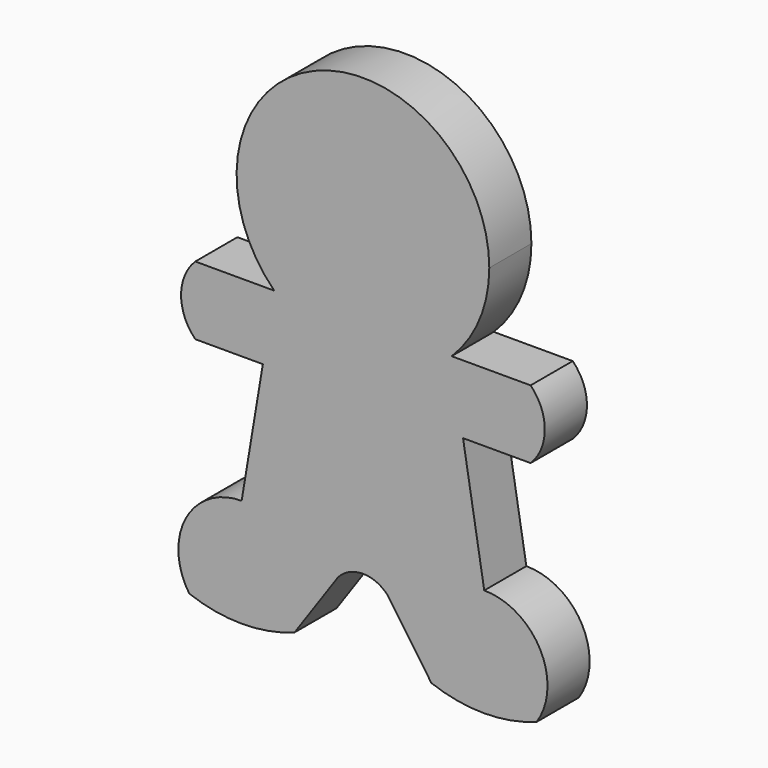
from build123d import *

# Parameters (mm, degrees)
F1_DEPTH = 2.54


with BuildPart() as f1:
    # F0 (on Front) → F1 (new body)
    with BuildSketch(Plane.XZ):
        with BuildLine():
            ThreePointArc((4.2795464076, -4.3412784459), (5.6235811944, -2.3529875795), (6.096, 0))
            ThreePointArc((6.096, 0), (-2.3529875795, 5.6235811944), (-4.2795464076, -4.3412784459))
            Line((-4.2795464076, -4.3412784459), (-3.556, 0))
            Line((-3.556, 0), (0, 0))
            Line((0, 0), (3.556, 0))
            Line((3.556, 0), (4.2795464076, -4.3412784459))
        make_face()
        with BuildLine():
            Line((-3.556, 0), (-4.2795464076, -4.3412784459))
            ThreePointArc((-4.2795464076, -4.3412784459), (0, -6.096), (4.2795464076, -4.3412784459))
            Line((4.2795464076, -4.3412784459), (3.556, 0))
            Line((3.556, 0), (0, 0))
            Line((0, 0), (-3.556, 0))
        make_face()
        with BuildLine():
            ThreePointArc((4.2795464076, -4.3412784459), (0, -6.096), (-4.2795464076, -4.3412784459))
            Line((-4.2795464076, -4.3412784459), (-4.572, -6.096))
            Line((-4.572, -6.096), (-4.829879741, -7.6432784459))
            Line((-4.829879741, -7.6432784459), (-5.8526538527, -13.7799231159))
            Line((-5.8526538527, -13.7799231159), (0, -13.7799231159))
            Line((0, -13.7799231159), (5.8526538527, -13.7799231159))
            Line((5.8526538527, -13.7799231159), (4.829879741, -7.6432784459))
            Line((4.829879741, -7.6432784459), (4.572, -6.096))
            Line((4.572, -6.096), (4.2795464076, -4.3412784459))
        make_face()
        with BuildLine():
            Line((-4.572, -6.096), (-4.2795464076, -4.3412784459))
            Line((-4.2795464076, -4.3412784459), (-8.0895464076, -4.3412784459))
            ThreePointArc((-8.0895464076, -4.3412784459), (-8.7753464076, -5.9922784459), (-8.0895464076, -7.6432784459))
            Line((-8.0895464076, -7.6432784459), (-4.829879741, -7.6432784459))
            Line((-4.829879741, -7.6432784459), (-4.572, -6.096))
        make_face()
        with BuildLine():
            Line((8.0895464076, -4.3412784459), (4.2795464076, -4.3412784459))
            Line((4.2795464076, -4.3412784459), (4.572, -6.096))
            Line((4.572, -6.096), (4.829879741, -7.6432784459))
            Line((4.829879741, -7.6432784459), (8.0895464076, -7.6432784459))
            ThreePointArc((8.0895464076, -7.6432784459), (8.7753464076, -5.9922784459), (8.0895464076, -4.3412784459))
        make_face()
        with BuildLine():
            Line((0, -13.7799231159), (-5.8526538527, -13.7799231159))
            ThreePointArc((-5.8526538527, -13.7799231159), (-8.5487143204, -15.4006894585), (-8.382, -18.542))
            Line((-8.382, -18.542), (-5.842, -18.542))
            Line((-5.842, -18.542), (-3.302, -18.542))
            Line((-3.302, -18.542), (-1.1988751223, -15.5089163039))
            Line((-1.1988751223, -15.5089163039), (0, -13.7799231159))
        make_face()
        with BuildLine():
            ThreePointArc((8.382, -18.542), (8.5487143204, -15.4006894585), (5.8526538527, -13.7799231159))
            Line((5.8526538527, -13.7799231159), (0, -13.7799231159))
            Line((0, -13.7799231159), (1.1988751223, -15.5089163039))
            Line((1.1988751223, -15.5089163039), (3.302, -18.542))
            Line((3.302, -18.542), (5.842, -18.542))
            Line((5.842, -18.542), (8.382, -18.542))
        make_face()
        with BuildLine():
            Line((1.1988751223, -15.5089163039), (0, -13.7799231159))
            Line((0, -13.7799231159), (-1.1988751223, -15.5089163039))
            ThreePointArc((-1.1988751223, -15.5089163039), (0, -14.9736905706), (1.1988751223, -15.5089163039))
        make_face()
        with BuildLine():
            Line((-5.842, -18.542), (-8.382, -18.542))
            ThreePointArc((-8.382, -18.542), (-7.1324099969, -18.8839888715), (-5.842, -18.9992))
            Line((-5.842, -18.9992), (-5.842, -18.542))
        make_face()
        with BuildLine():
            ThreePointArc((5.842, -18.9992), (7.1324099969, -18.8839888715), (8.382, -18.542))
            Line((8.382, -18.542), (5.842, -18.542))
            Line((5.842, -18.542), (5.842, -18.9992))
        make_face()
        with BuildLine():
            Line((-3.302, -18.542), (-5.842, -18.542))
            Line((-5.842, -18.542), (-5.842, -18.9992))
            ThreePointArc((-5.842, -18.9992), (-4.5515900031, -18.8839888715), (-3.302, -18.542))
        make_face()
        with BuildLine():
            Line((5.842, -18.9992), (5.842, -18.542))
            Line((5.842, -18.542), (3.302, -18.542))
            ThreePointArc((3.302, -18.542), (4.5515900031, -18.8839888715), (5.842, -18.9992))
        make_face()
    extrude(amount=F1_DEPTH)


solid = f1.part
